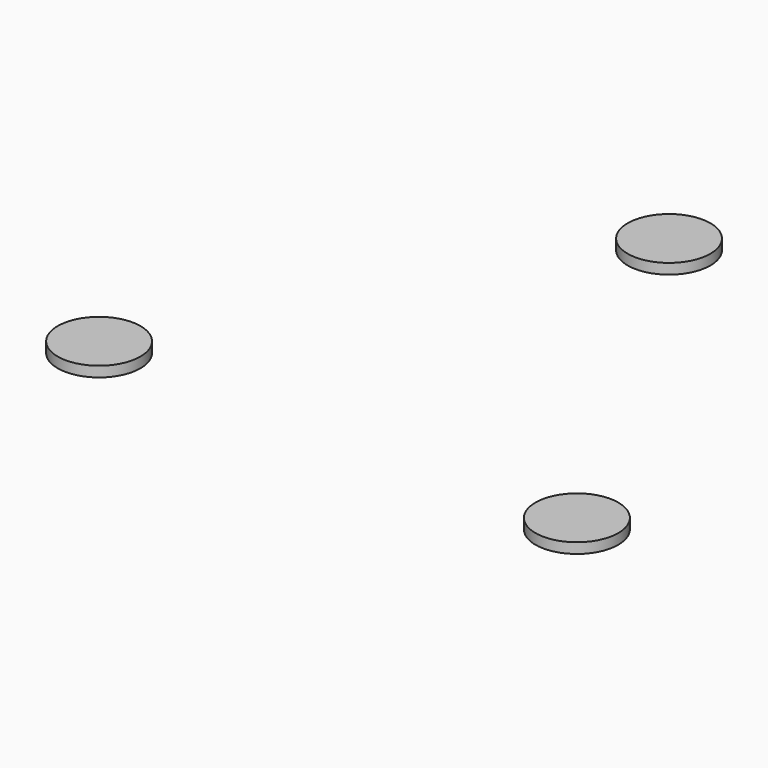
from build123d import *

# Parameters (mm, degrees)
F1_R     = 100
F2_DEPTH = 25


with BuildPart() as f2:
    # F1 (on Top) → F2 (new body)
    with BuildSketch(Plane.XY):
        with Locations((0, 666.666667)):
            Circle(F1_R)
        with Locations((-577.350269, -333.333333)):
            Circle(F1_R)
        with Locations((577.350269, -333.333333)):
            Circle(F1_R)
    extrude(amount=-F2_DEPTH)


solid = f2.part
